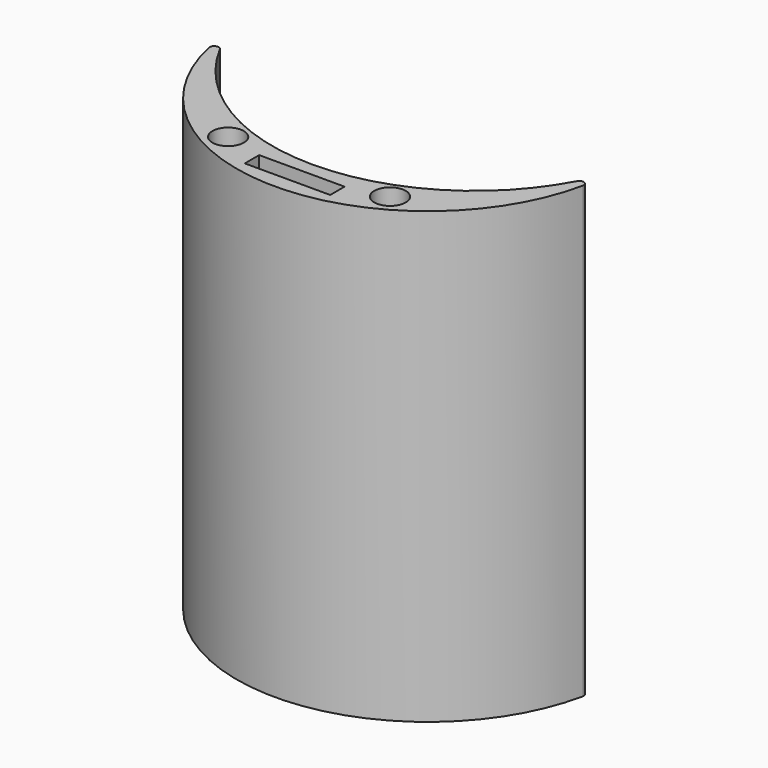
from build123d import *

# Parameters (mm, degrees)
CYLINDER017_R     = 3.5
CYLINDER017_DEPTH = 25
CYLINDER016_R     = 3.5
CYLINDER016_DEPTH = 25
CYLINDER009_R     = 3.5
CYLINDER009_DEPTH = 25
CYLINDER007_R     = 3.5
CYLINDER007_DEPTH = 25
BOX001_W          = 19
BOX001_H          = 4
BOX001_DEPTH      = 100
CYLINDER002_R     = 45
CYLINDER002_DEPTH = 100
CYLINDER003_R     = 42.5
CYLINDER003_DEPTH = 100
FILLET003_R       = 1
FILLET002_R       = 1


with BuildPart() as cylindre015:
    # Cylinder017 → Cylinder017 (new body)
    with BuildSketch(Plane(origin=(18, -33, -112.5), x_dir=(1, 0, 0), z_dir=(0, 0, 1))):
        Circle(CYLINDER017_R)
    extrude(amount=CYLINDER017_DEPTH)


with BuildPart() as cylindre014:
    # Cylinder016 → Cylinder016 (new body)
    with BuildSketch(Plane(origin=(-18, -33, -112.5), x_dir=(1, 0, 0), z_dir=(0, 0, 1))):
        Circle(CYLINDER016_R)
    extrude(amount=CYLINDER016_DEPTH)


with BuildPart() as cylindre009:
    # Cylinder009 → Cylinder009 (new body)
    with BuildSketch(Plane(origin=(18, -33, -12.5), x_dir=(1, 0, 0), z_dir=(0, 0, 1))):
        Circle(CYLINDER009_R)
    extrude(amount=CYLINDER009_DEPTH)


with BuildPart() as cylindre007:
    # Cylinder007 → Cylinder007 (new body)
    with BuildSketch(Plane(origin=(-18, -33, -12.5), x_dir=(1, 0, 0), z_dir=(0, 0, 1))):
        Circle(CYLINDER007_R)
    extrude(amount=CYLINDER007_DEPTH)


with BuildPart() as cube001:
    # Box001 → Box001 (new body)
    with BuildSketch(Plane(origin=(-9.5, -39, 0), x_dir=(1, 0, 0), z_dir=(0, 0, 1))):
        with Locations((9.5, 2)):
            Rectangle(BOX001_W, BOX001_H)
    extrude(amount=BOX001_DEPTH)


with BuildPart() as cylindre002:
    # Cylinder002 → Cylinder002 (new body)
    with BuildSketch(Plane(origin=(0, 13, 0), x_dir=(1, 0, 0), z_dir=(0, 0, 1))):
        Circle(CYLINDER002_R)
    extrude(amount=CYLINDER002_DEPTH)


with BuildPart() as cut011:
    # Cylinder003 → Cylinder003 (new body)
    with BuildSketch(Plane.XY):
        Circle(CYLINDER003_R)
    extrude(amount=CYLINDER003_DEPTH)

    # Cut003: cut Cylindre002
    add(cylindre002.part, mode=Mode.SUBTRACT)

    # Fillet003
    fillet003_edges = [cut011.edges().sort_by_distance(p)[0] for p in [
        (-42.456904, -1.913462, 50),
    ]]
    fillet(fillet003_edges, radius=FILLET003_R)

    # Fillet002
    fillet002_edges = [cut011.edges().sort_by_distance(p)[0] for p in [
        (42.456904, -1.913462, 50),
    ]]
    fillet(fillet002_edges, radius=FILLET002_R)

    # Cut002: cut Cube001
    add(cube001.part, mode=Mode.SUBTRACT)


with BuildPart() as cut011_1:
    # Cut002 placement: moved
    add(cut011.part.moved(Location((0, 0, -100))))

    # Cut007: cut Cylindre007
    add(cylindre007.part, mode=Mode.SUBTRACT)

    # Cut008: cut Cylindre009
    add(cylindre009.part, mode=Mode.SUBTRACT)

    # Cut010: cut Cylindre014
    add(cylindre014.part, mode=Mode.SUBTRACT)

    # Cut011: cut Cylindre015
    add(cylindre015.part, mode=Mode.SUBTRACT)


solid = cut011_1.part
